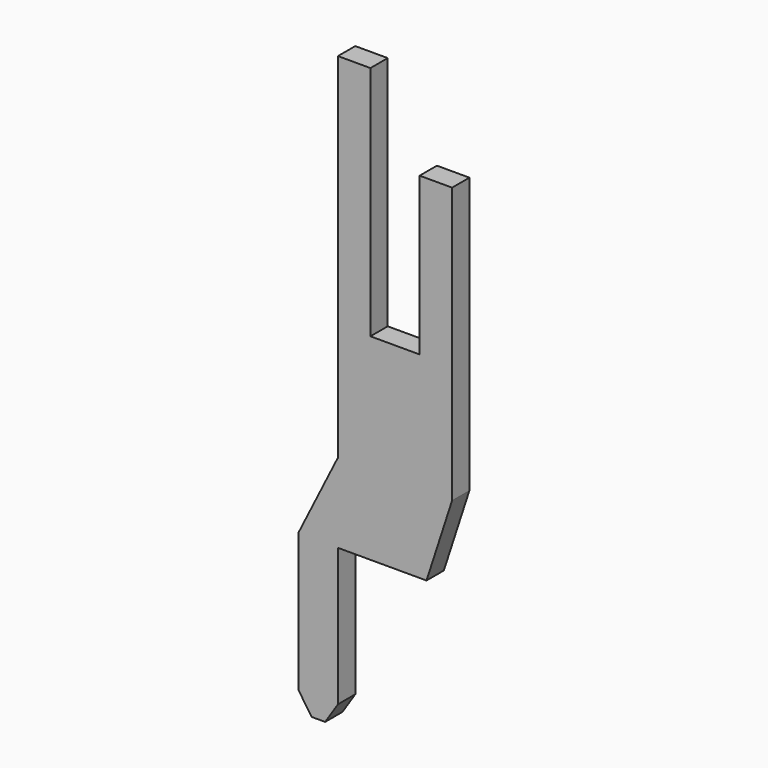
from build123d import *

# Parameters (mm, degrees)
BOX056_W         = 2.9
BOX056_H         = 0.55
BOX056_DEPTH     = 15
BOX057_W         = 1.25
BOX057_H         = 0.55
BOX057_DEPTH     = 6
BOX058_W         = 1.1
BOX058_H         = 0.6
BOX058_DEPTH     = 2
BOX059_W         = 1
BOX059_H         = 0.55
BOX059_DEPTH     = 6
BOX060_W         = 3
BOX060_H         = 0.55
BOX060_DEPTH     = 4
CHAMFER022_SIZE2 = 0.65
CHAMFER022_SIZE  = 2
CHAMFER023_ANGLE = 33
CHAMFER023_SIZE  = 0.5
CHAMFER024_ANGLE = 56
CHAMFER024_SIZE  = 0.33
CHAMFER025_ANGLE = 26.565
CHAMFER025_SIZE  = 1.98


with BuildPart() as part:
    # Box056 → Box056 (join)
    with BuildSketch(Plane(origin=(-4.95, -0.275, 0), x_dir=(1, 0, 0), z_dir=(0, 0, 1))):
        with Locations((1.45, 0.275)):
            Rectangle(BOX056_W, BOX056_H)
    extrude(amount=BOX056_DEPTH)

    # Box057 → Box057 (cut)
    with BuildSketch(Plane(origin=(-4.125, -0.275, 9), x_dir=(1, 0, 0), z_dir=(0, 0, 1))):
        with Locations((0.625, 0.275)):
            Rectangle(BOX057_W, BOX057_H)
    extrude(amount=BOX057_DEPTH, mode=Mode.SUBTRACT)

    # Box058 → Box058 (cut)
    with BuildSketch(Plane(origin=(-3, -0.3, 13), x_dir=(1, 0, 0), z_dir=(0, 0, 1))):
        with Locations((0.55, 0.3)):
            Rectangle(BOX058_W, BOX058_H)
    extrude(amount=BOX058_DEPTH, mode=Mode.SUBTRACT)

    # Box059 → Box059 (join)
    with BuildSketch(Plane(origin=(-5.95, -0.275, 0), x_dir=(1, 0, 0), z_dir=(0, 0, 1))):
        with Locations((0.5, 0.275)):
            Rectangle(BOX059_W, BOX059_H)
    extrude(amount=BOX059_DEPTH)

    # Box060 → Box060 (cut)
    with BuildSketch(Plane(origin=(-4.95, 0.275, 4), x_dir=(1, 0, 0), z_dir=(0, 0, -1))):
        with Locations((1.5, 0.275)):
            Rectangle(BOX060_W, BOX060_H)
    extrude(amount=BOX060_DEPTH, mode=Mode.SUBTRACT)

    # Chamfer022
    chamfer022_edges = [part.edges().sort_by_distance(p)[0] for p in [
        (-2.05, 0, 4),
    ]]
    chamfer022_side = part.faces().sort_by_distance((-2.05, 0, 8.5))[0]
    chamfer(chamfer022_edges, length=CHAMFER022_SIZE, length2=CHAMFER022_SIZE2, reference=chamfer022_side)

    # Chamfer023
    chamfer023_edges = [part.edges().sort_by_distance(p)[0] for p in [
        (-4.95, 0, 0),
    ]]
    chamfer023_side = part.faces().sort_by_distance((-4.95, 0, 2))[0]
    chamfer(chamfer023_edges, length=CHAMFER023_SIZE, angle=CHAMFER023_ANGLE, reference=chamfer023_side)

    # Chamfer024
    chamfer024_edges = [part.edges().sort_by_distance(p)[0] for p in [
        (-5.95, 0, 0),
    ]]
    chamfer024_side = part.faces().sort_by_distance((-5.612352, 0, 0))[0]
    chamfer(chamfer024_edges, length=CHAMFER024_SIZE, angle=CHAMFER024_ANGLE, reference=chamfer024_side)

    # Chamfer025
    chamfer025_edges = [part.edges().sort_by_distance(p)[0] for p in [
        (-5.95, 0, 6),
    ]]
    chamfer025_side = part.faces().sort_by_distance((-5.95, 0, 3.244623))[0]
    chamfer(chamfer025_edges, length=CHAMFER025_SIZE, angle=CHAMFER025_ANGLE, reference=chamfer025_side)


with BuildPart() as part_1:
    # Body026 placement: moved
    add(part.part.moved(Location((0, 0, -4))))


solid = part_1.part
